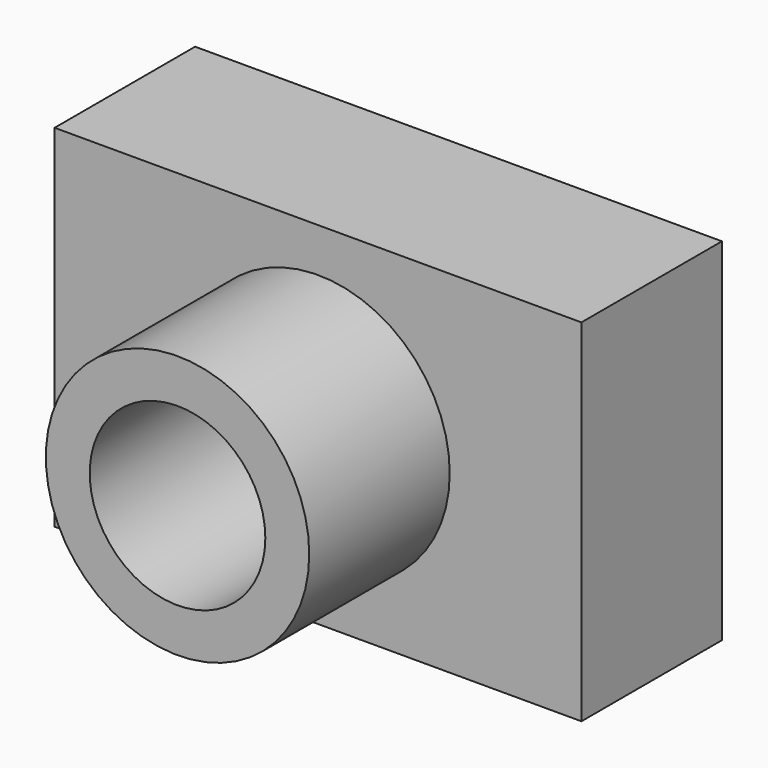
from build123d import *

# Parameters (mm, degrees)
F0_W     = 152.4
F0_H     = 101.6
F1_DEPTH = 50.8
F3_R     = 38.1
F4_DEPTH = 50.8
F5_R     = 25.4
F6_DEPTH = 101.6


with BuildPart() as f1:
    # F0 (on Front) → F1 (new body)
    with BuildSketch(Plane.XZ):
        Rectangle(F0_W, F0_H)
    extrude(amount=F1_DEPTH)

    # F3 (on face) → F4 (join)
    with BuildSketch(Plane.XZ.offset(50.8)):
        Circle(F3_R)
    extrude(amount=F4_DEPTH)

    # F5 (on face) → F6 (cut)
    with BuildSketch(Plane.XZ.offset(101.6)):
        Circle(F5_R)
    extrude(amount=-F6_DEPTH, mode=Mode.SUBTRACT)


solid = f1.part
